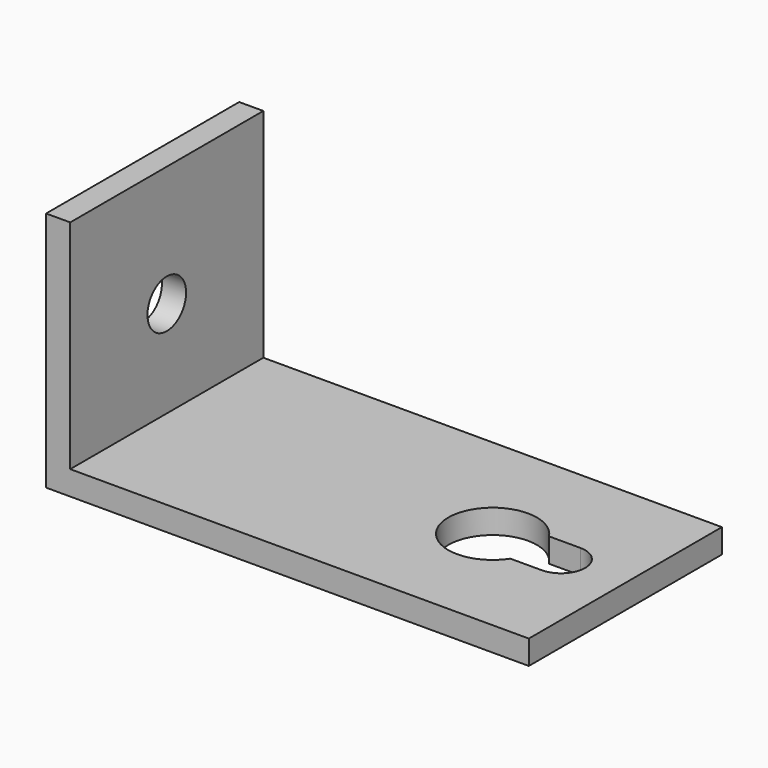
from build123d import *

# Parameters (mm, degrees)
F1_DEPTH = 30
F2_R     = 3
F3_DEPTH = 60.001
F5_DEPTH = 30.001


with BuildPart() as f1:
    # F0 (on Front) → F1 (new body)
    with BuildSketch(Plane.XZ):
        Polygon((0, 30), (0, 0), (60, 0), (60, 3), (3, 3), (3, 30), align=None)
    extrude(amount=F1_DEPTH)

    # F2 (on face) → F3 (cut, through all)
    with BuildSketch(Plane(origin=(0, 0, 0), x_dir=(0, -1, 0), z_dir=(-1, 0, 0))):
        with Locations((15, 15)):
            Circle(F2_R)
    extrude(amount=-F3_DEPTH, mode=Mode.SUBTRACT)

    # F4 (on face) → F5 (cut, through all)
    with BuildSketch(Plane(origin=(0, 0, 0), x_dir=(1, 0, 0), z_dir=(0, 0, -1))):
        with BuildLine():
            Line((52, 18), (48.109772, 18))
            ThreePointArc((48.109772, 18), (38, 15), (48.109772, 12))
            Line((48.109772, 12), (52, 12))
            ThreePointArc((52, 12), (55, 15), (52, 18))
        make_face()
    extrude(amount=-F5_DEPTH, mode=Mode.SUBTRACT)


solid = f1.part
